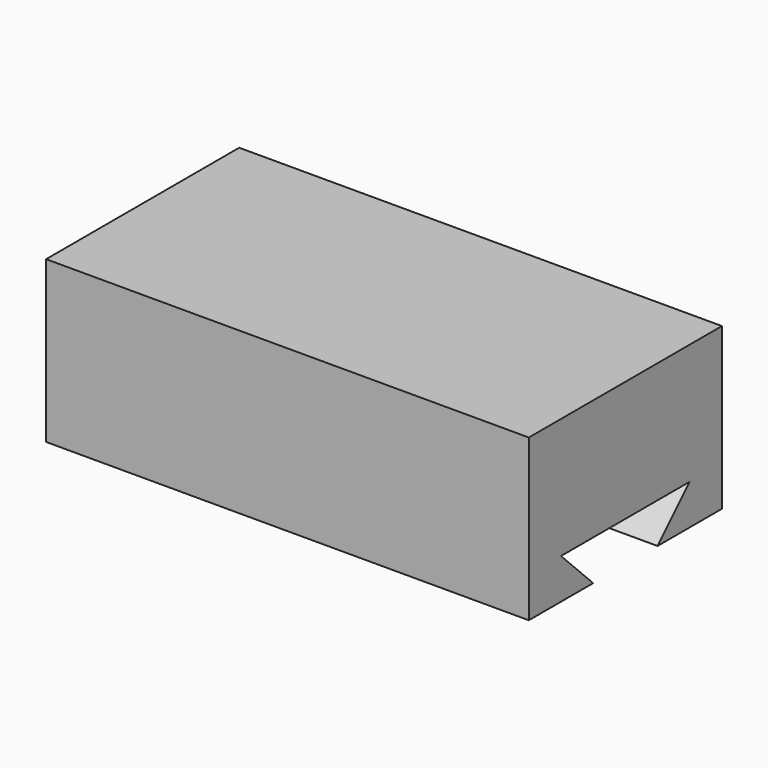
from build123d import *

# Parameters (mm, degrees)
F0_W     = 152.4
F0_H     = 76.2
F1_DEPTH = 50.8
F3_DEPTH = 152.401


with BuildPart() as f1:
    # F0 (on Top) → F1 (new body)
    with BuildSketch(Plane.XY):
        Rectangle(F0_W, F0_H)
    extrude(amount=F1_DEPTH)

    # F2 (on face) → F3 (cut, through all)
    with BuildSketch(Plane.YZ.offset(76.2)):
        Polygon((-25.4, 12.7), (-12.7, 0), (12.7, 0), (25.4, 12.7), align=None)
    extrude(amount=-F3_DEPTH, mode=Mode.SUBTRACT)


solid = f1.part
